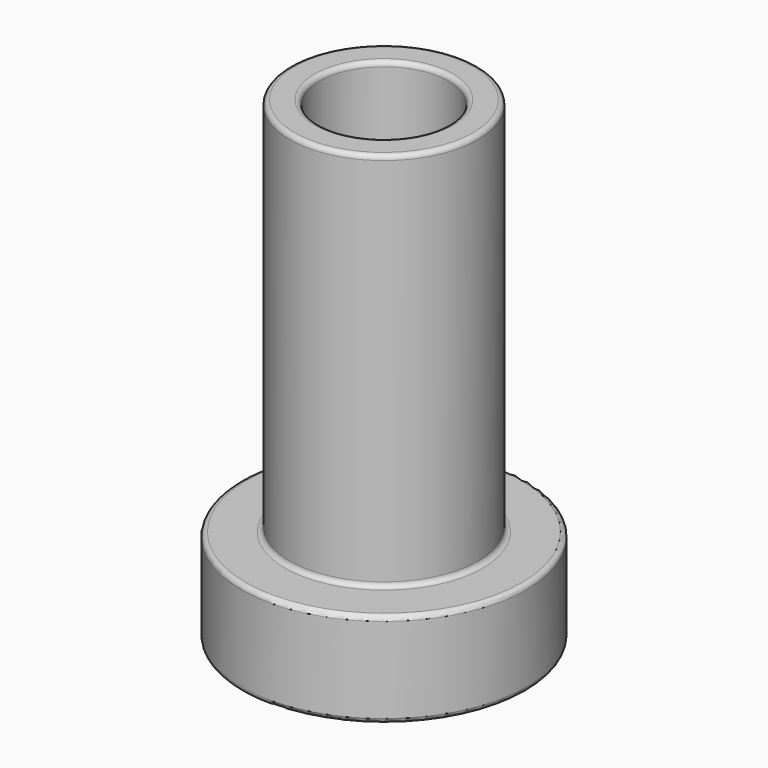
from build123d import *

# Parameters (mm, degrees)
F0_R     = 7.5
F1_DEPTH = 25
F2_R     = 7.5
F2_R_2   = 4.95
F3_DEPTH = 20
F4_R     = 3.4
F5_DEPTH = 10
F6_R     = 0.25


with BuildPart() as f1:
    # F0 (on Top) → F1 (new body)
    with BuildSketch(Plane.XY):
        Circle(F0_R)
    extrude(amount=F1_DEPTH)

    # F2 (on face) → F3 (cut)
    with BuildSketch(Plane.XY.offset(25)):
        Circle(F2_R)
        Circle(F2_R_2, mode=Mode.SUBTRACT)
    extrude(amount=-F3_DEPTH, mode=Mode.SUBTRACT)

    # F4 (on face) → F5 (cut)
    with BuildSketch(Plane.XY.offset(25)):
        Circle(F4_R)
    extrude(amount=-F5_DEPTH, mode=Mode.SUBTRACT)

    # F6
    f6_edges = [f1.edges().sort_by_distance(p)[0] for p in [
        (-7.5, 0, 5),
        (-7.5, 0, 0),
        (-4.95, 0, 25),
        (-3.4, 0, 25),
        (-4.95, 0, 5),
    ]]
    fillet(f6_edges, radius=F6_R)


solid = f1.part
